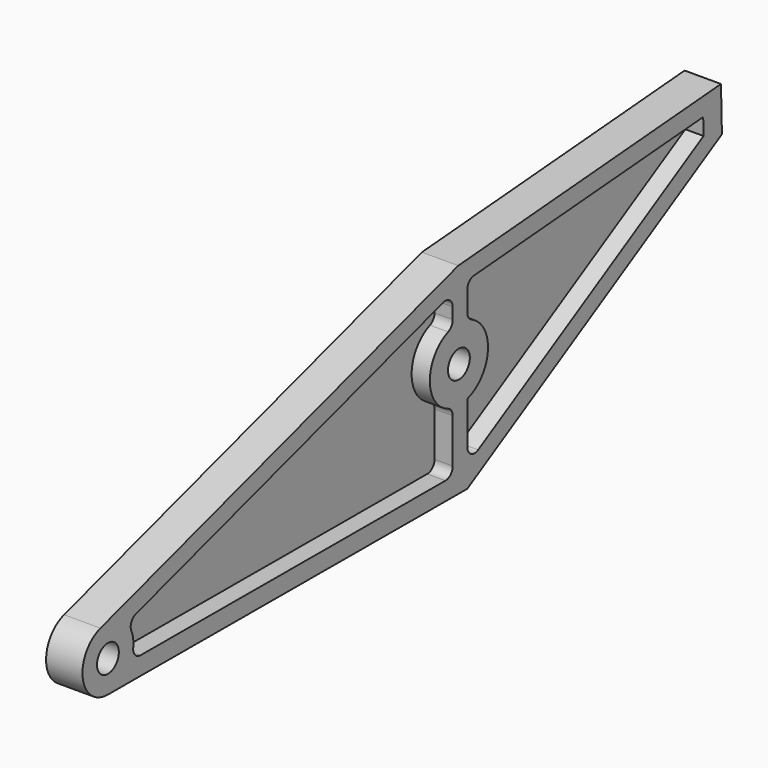
from build123d import *

# Parameters (mm, degrees)
F1_DEPTH = 4
F3_DEPTH = 2
F4_R     = 1.5
F5_DEPTH = 4.001


with BuildPart() as f1:
    # F0 (on Right) → F1 (new body)
    with BuildSketch(Plane.YZ):
        with BuildLine():
            Line((48.14, 18.44), (-1.027172, 3.345881))
            ThreePointArc((-1.027172, 3.345881), (-3.462092, -0.513727), (-0.011339, -3.499982))
            Line((-0.011339, -3.499982), (49.38, -3.66))
            Line((49.38, -3.66), (84.37, 16.43))
            Line((84.37, 16.43), (84.24, 21.35))
            Line((84.24, 21.35), (48.14, 18.44))
        make_face()
    extrude(amount=F1_DEPTH)

    # F2 (on face) → F3 (cut)
    with BuildSketch(Plane.YZ.offset(4)):
        with BuildLine():
            ThreePointArc((46.75, 5.163873), (44.23, 8.88), (46.75, 12.596127))
            ThreePointArc((46.75, 12.596127), (47.207647, 12.96391), (47.38, 13.525159))
            Line((47.38, 13.525159), (47.38, 14.7615))
            ThreePointArc((47.38, 14.7615), (46.974358, 15.565701), (46.086522, 15.717466))
            Line((46.086522, 15.717466), (3.834993, 2.746421))
            ThreePointArc((3.834993, 2.746421), (3.220284, 2.20902), (3.211033, 1.392576))
            ThreePointArc((3.211033, 1.392576), (3.462092, 0.513727), (3.47705, -0.400156))
            ThreePointArc((3.47705, -0.400156), (3.722981, -1.178735), (4.467253, -1.514481))
            Line((4.467253, -1.514481), (46.37676, -1.65026))
            ThreePointArc((46.37676, -1.65026), (47.08596, -1.358516), (47.38, -0.650265))
            Line((47.38, -0.650265), (47.38, 4.234841))
            ThreePointArc((47.38, 4.234841), (47.207647, 4.79609), (46.75, 5.163873))
        make_face()
        with BuildLine():
            Line((49.38, 15.610834), (49.38, 13.394144))
            ThreePointArc((49.38, 13.394144), (49.534423, 12.860291), (49.95, 12.491316))
            ThreePointArc((49.95, 12.491316), (52.21832, 8.574543), (49.38, 5.048877))
            Line((49.38, 5.048877), (49.38, 0.373496))
            ThreePointArc((49.38, 0.373496), (49.878964, -0.49193), (50.877926, -0.493723))
            Line((50.877926, -0.493723), (81.846475, 17.287304))
            Line((81.846475, 17.287304), (81.797347, 19.146612))
            Line((81.797347, 19.146612), (50.299651, 16.607601))
            ThreePointArc((50.299651, 16.607601), (49.645034, 16.288938), (49.38, 15.610834))
        make_face()
    extrude(amount=-F3_DEPTH, mode=Mode.SUBTRACT)

    # F4 (on face) → F5 (cut, through all)
    with BuildSketch(Plane.YZ.offset(4)):
        Circle(F4_R)
        with Locations((48.23, 8.88)):
            Circle(F4_R)
    extrude(amount=-F5_DEPTH, mode=Mode.SUBTRACT)


solid = f1.part
